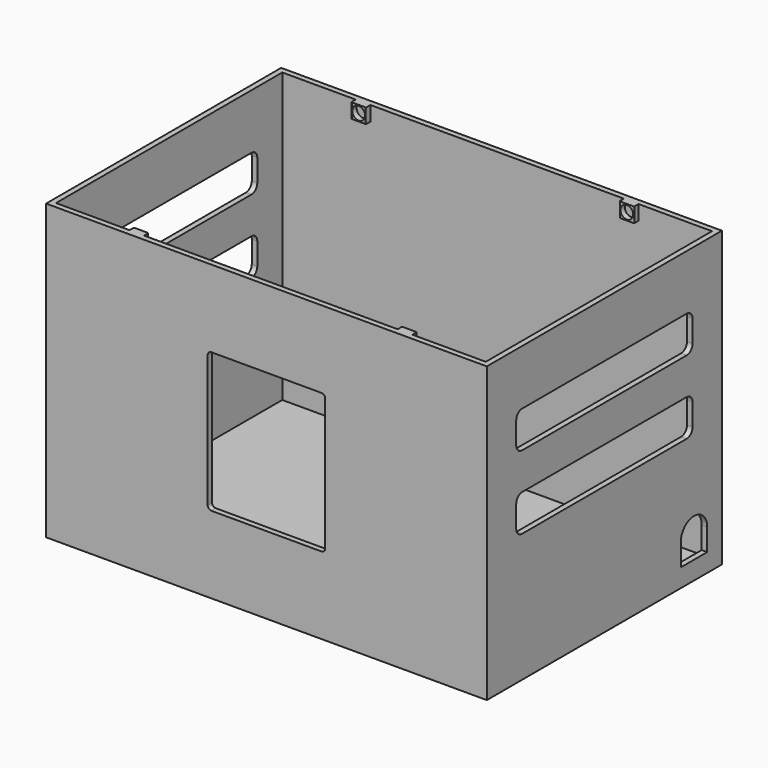
from build123d import *

# Parameters (mm, degrees)
SKETCH_W        = 120
SKETCH_H        = 80
PAD_DEPTH       = 80
SKETCH001_W     = 117
SKETCH001_H     = 77
POCKET_DEPTH    = 78.5
SKETCH002_W     = 32
SKETCH002_H     = 38
POCKET001_DEPTH = 2
SKETCH003_W     = 60
SKETCH003_H     = 10
POCKET002_DEPTH = 5
SKETCH004_W     = 60
SKETCH004_H     = 10
POCKET003_DEPTH = 5
POCKET004_DEPTH = 5
SKETCH006_W     = 4
SKETCH006_H     = 4
PAD001_DEPTH    = 1.5
SKETCH007_R     = 1.75
POCKET005_DEPTH = 1.5
SKETCH008_R     = 1.75
POCKET006_DEPTH = 1.5
SKETCH009_W     = 4
SKETCH009_H     = 4
PAD002_DEPTH    = 1.5
SKETCH010_R     = 1.75
POCKET007_DEPTH = 1.5
SKETCH011_R     = 1.75
POCKET008_DEPTH = 1.5
FILLET_R        = 1
FILLET001_R     = 1
FILLET002_R     = 1
FILLET003_R     = 1
SKETCH012_W     = 35
SKETCH012_H     = 1
PAD003_DEPTH    = 1
FILLET004_R     = 0.2
FILLET005_R     = 0.2
FILLET006_R     = 0.2
FILLET007_R     = 0.2
FILLET008_R     = 0.2
FILLET009_R     = 0.2
FILLET010_R     = 0.2
FILLET011_R     = 0.2
FILLET012_R     = 2
FILLET013_R     = 2
FILLET014_R     = 2
FILLET015_R     = 2
FILLET016_R     = 2
FILLET017_R     = 2
FILLET018_R     = 2
FILLET019_R     = 2
FILLET020_R     = 2
FILLET021_R     = 2
FILLET022_R     = 2
FILLET023_R     = 2
FILLET024_R     = 2
FILLET025_R     = 2
FILLET026_R     = 2
FILLET027_R     = 2


with BuildPart() as part:
    # Sketch → Pad (new body)
    with BuildSketch(Plane.XY):
        with Locations((3.133141, 0.368083)):
            Rectangle(SKETCH_W, SKETCH_H)
    extrude(amount=PAD_DEPTH)

    # Sketch001 (on Face6 of Pad) → Pocket (cut)
    with BuildSketch(Plane.XY.offset(80)):
        with Locations((3.133141, 0.368083)):
            Rectangle(SKETCH001_W, SKETCH001_H)
    extrude(amount=-POCKET_DEPTH, mode=Mode.SUBTRACT)

    # Sketch002 (on Face6 of Pocket) → Pocket001 (cut)
    with BuildSketch(Plane.XZ.offset(39.631917)):
        with Locations((3.133141, 40)):
            Rectangle(SKETCH002_W, SKETCH002_H)
    extrude(amount=-POCKET001_DEPTH, mode=Mode.SUBTRACT)

    # Sketch003 (on Face3 of Pocket001) → Pocket002 (cut)
    with BuildSketch(Plane.YZ.offset(63.133141)):
        with Locations((0.368083, 60)):
            Rectangle(SKETCH003_W, SKETCH003_H)
        with Locations((0.368083, 40)):
            Rectangle(SKETCH003_W, SKETCH003_H)
    extrude(amount=-POCKET002_DEPTH, mode=Mode.SUBTRACT)

    # Sketch004 (on Face2 of Pocket002) → Pocket003 (cut)
    with BuildSketch(Plane(origin=(-56.866859, 0, 0), x_dir=(0, -1, 0), z_dir=(-1, 0, 0))):
        with Locations((-0.368083, 60)):
            Rectangle(SKETCH004_W, SKETCH004_H)
        with Locations((-0.368083, 40)):
            Rectangle(SKETCH004_W, SKETCH004_H)
    extrude(amount=-POCKET003_DEPTH, mode=Mode.SUBTRACT)

    # Sketch005 (on Face3 of Pocket003) → Pocket004 (cut)
    with BuildSketch(Plane.YZ.offset(63.133141)):
        with BuildLine():
            Line((26.368083, 11), (26.368083, 5))
            Line((26.368083, 5), (35.368083, 5))
            Line((35.368083, 5), (35.368083, 11))
            ThreePointArc((35.368083, 11), (30.868083, 15.5), (26.368083, 11))
        make_face()
    extrude(amount=-POCKET004_DEPTH, mode=Mode.SUBTRACT)

    # Sketch006 (on Face27 of Pocket004) → Pad001 (join)
    with BuildSketch(Plane.XZ.offset(-38.868083)):
        with Locations((-33.366859, 78)):
            Rectangle(SKETCH006_W, SKETCH006_H)
        with Locations((39.633141, 78)):
            Rectangle(SKETCH006_W, SKETCH006_H)
    extrude(amount=PAD001_DEPTH)

    # Sketch007 (on Face44 of Pad001) → Pocket005 (cut)
    with BuildSketch(Plane.XZ.offset(-37.368083)):
        with Locations((-33.366859, 78)):
            Circle(SKETCH007_R)
    extrude(amount=-POCKET005_DEPTH, mode=Mode.SUBTRACT)

    # Sketch008 (on Face45 of Pocket005) → Pocket006 (cut)
    with BuildSketch(Plane.XZ.offset(-37.368083)):
        with Locations((39.633141, 78)):
            Circle(SKETCH008_R)
    extrude(amount=-POCKET006_DEPTH, mode=Mode.SUBTRACT)

    # Sketch009 (on Face31 of Pocket006) → Pad002 (join)
    with BuildSketch(Plane(origin=(0, -38.131917, 0), x_dir=(-1, 0, 0), z_dir=(0, 1, 0))):
        with Locations((-39.633141, 78)):
            Rectangle(SKETCH009_W, SKETCH009_H)
        with Locations((33.366859, 78)):
            Rectangle(SKETCH009_W, SKETCH009_H)
    extrude(amount=PAD002_DEPTH)

    # Sketch010 (on Face54 of Pad002) → Pocket007 (cut)
    with BuildSketch(Plane(origin=(0, -36.631917, 0), x_dir=(-1, 0, 0), z_dir=(0, 1, 0))):
        with Locations((-39.633141, 78)):
            Circle(SKETCH010_R)
    extrude(amount=-POCKET007_DEPTH, mode=Mode.SUBTRACT)

    # Sketch011 (on Face55 of Pocket007) → Pocket008 (cut)
    with BuildSketch(Plane(origin=(0, -36.631917, 0), x_dir=(-1, 0, 0), z_dir=(0, 1, 0))):
        with Locations((33.366859, 78)):
            Circle(SKETCH011_R)
    extrude(amount=-POCKET008_DEPTH, mode=Mode.SUBTRACT)

    # Fillet
    fillet_edges = [part.edges().sort_by_distance(p)[0] for p in [
        (-12.866859, -38.881917, 21),
    ]]
    fillet(fillet_edges, radius=FILLET_R)

    # Fillet001
    fillet001_edges = [part.edges().sort_by_distance(p)[0] for p in [
        (19.133141, -38.881917, 21),
    ]]
    fillet(fillet001_edges, radius=FILLET001_R)

    # Fillet002
    fillet002_edges = [part.edges().sort_by_distance(p)[0] for p in [
        (19.133141, -38.881917, 59),
    ]]
    fillet(fillet002_edges, radius=FILLET002_R)

    # Fillet003
    fillet003_edges = [part.edges().sort_by_distance(p)[0] for p in [
        (-12.866859, -38.881917, 59),
    ]]
    fillet(fillet003_edges, radius=FILLET003_R)

    # Sketch012 (on Face14 of Fillet003) → Pad003 (join)
    with BuildSketch(Plane(origin=(0, -38.131917, 0), x_dir=(-1, 0, 0), z_dir=(0, 1, 0))):
        with Locations((-3.133141, 19.5)):
            Rectangle(SKETCH012_W, SKETCH012_H)
    extrude(amount=PAD003_DEPTH)

    # Fillet004
    fillet004_edges = [part.edges().sort_by_distance(p)[0] for p in [
        (-35.366859, -36.631917, 78),
    ]]
    fillet(fillet004_edges, radius=FILLET004_R)

    # Fillet005
    fillet005_edges = [part.edges().sort_by_distance(p)[0] for p in [
        (-31.366859, -36.631917, 78),
    ]]
    fillet(fillet005_edges, radius=FILLET005_R)

    # Fillet006
    fillet006_edges = [part.edges().sort_by_distance(p)[0] for p in [
        (37.633141, -36.631917, 78),
    ]]
    fillet(fillet006_edges, radius=FILLET006_R)

    # Fillet007
    fillet007_edges = [part.edges().sort_by_distance(p)[0] for p in [
        (41.633141, -36.631917, 78),
    ]]
    fillet(fillet007_edges, radius=FILLET007_R)

    # Fillet008
    fillet008_edges = [part.edges().sort_by_distance(p)[0] for p in [
        (-35.366859, 37.368083, 78),
    ]]
    fillet(fillet008_edges, radius=FILLET008_R)

    # Fillet009
    fillet009_edges = [part.edges().sort_by_distance(p)[0] for p in [
        (-31.366859, 37.368083, 78),
    ]]
    fillet(fillet009_edges, radius=FILLET009_R)

    # Fillet010
    fillet010_edges = [part.edges().sort_by_distance(p)[0] for p in [
        (37.633141, 37.368083, 78),
    ]]
    fillet(fillet010_edges, radius=FILLET010_R)

    # Fillet011
    fillet011_edges = [part.edges().sort_by_distance(p)[0] for p in [
        (41.633141, 37.368083, 78),
    ]]
    fillet(fillet011_edges, radius=FILLET011_R)

    # Fillet012
    fillet012_edges = [part.edges().sort_by_distance(p)[0] for p in [
        (62.383141, 30.368083, 65),
    ]]
    fillet(fillet012_edges, radius=FILLET012_R)

    # Fillet013
    fillet013_edges = [part.edges().sort_by_distance(p)[0] for p in [
        (62.383141, 30.368083, 55),
    ]]
    fillet(fillet013_edges, radius=FILLET013_R)

    # Fillet014
    fillet014_edges = [part.edges().sort_by_distance(p)[0] for p in [
        (62.383141, 30.368083, 35),
    ]]
    fillet(fillet014_edges, radius=FILLET014_R)

    # Fillet015
    fillet015_edges = [part.edges().sort_by_distance(p)[0] for p in [
        (62.383141, 30.368083, 45),
    ]]
    fillet(fillet015_edges, radius=FILLET015_R)

    # Fillet016
    fillet016_edges = [part.edges().sort_by_distance(p)[0] for p in [
        (62.383141, -29.631917, 35),
    ]]
    fillet(fillet016_edges, radius=FILLET016_R)

    # Fillet017
    fillet017_edges = [part.edges().sort_by_distance(p)[0] for p in [
        (62.383141, -29.631917, 55),
    ]]
    fillet(fillet017_edges, radius=FILLET017_R)

    # Fillet018
    fillet018_edges = [part.edges().sort_by_distance(p)[0] for p in [
        (62.383141, -29.631917, 45),
    ]]
    fillet(fillet018_edges, radius=FILLET018_R)

    # Fillet019
    fillet019_edges = [part.edges().sort_by_distance(p)[0] for p in [
        (62.383141, -29.631917, 65),
    ]]
    fillet(fillet019_edges, radius=FILLET019_R)

    # Fillet020
    fillet020_edges = [part.edges().sort_by_distance(p)[0] for p in [
        (-56.116859, -29.631917, 55),
    ]]
    fillet(fillet020_edges, radius=FILLET020_R)

    # Fillet021
    fillet021_edges = [part.edges().sort_by_distance(p)[0] for p in [
        (-56.116859, -29.631917, 35),
    ]]
    fillet(fillet021_edges, radius=FILLET021_R)

    # Fillet022
    fillet022_edges = [part.edges().sort_by_distance(p)[0] for p in [
        (-56.116859, -29.631917, 45),
    ]]
    fillet(fillet022_edges, radius=FILLET022_R)

    # Fillet023
    fillet023_edges = [part.edges().sort_by_distance(p)[0] for p in [
        (-56.116859, -29.631917, 65),
    ]]
    fillet(fillet023_edges, radius=FILLET023_R)

    # Fillet024
    fillet024_edges = [part.edges().sort_by_distance(p)[0] for p in [
        (-56.116859, 30.368083, 55),
    ]]
    fillet(fillet024_edges, radius=FILLET024_R)

    # Fillet025
    fillet025_edges = [part.edges().sort_by_distance(p)[0] for p in [
        (-56.116859, 30.368083, 35),
    ]]
    fillet(fillet025_edges, radius=FILLET025_R)

    # Fillet026
    fillet026_edges = [part.edges().sort_by_distance(p)[0] for p in [
        (-56.116859, 30.368083, 65),
    ]]
    fillet(fillet026_edges, radius=FILLET026_R)

    # Fillet027
    fillet027_edges = [part.edges().sort_by_distance(p)[0] for p in [
        (-56.116859, 30.368083, 45),
    ]]
    fillet(fillet027_edges, radius=FILLET027_R)


solid = part.part
